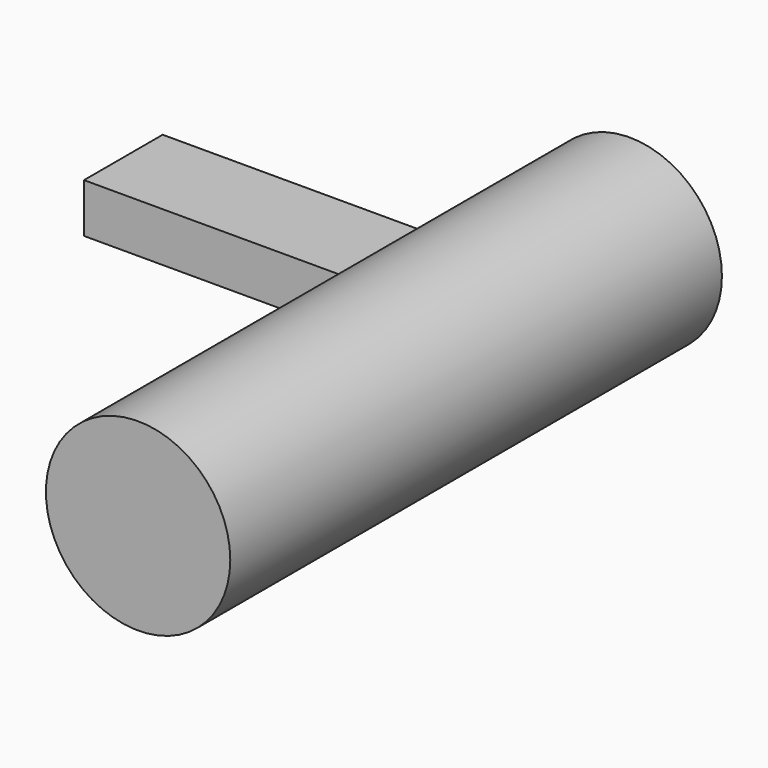
from build123d import *

# Parameters (mm, degrees)
F0_R     = 75
F1_DEPTH = 500
F3_DEPTH = 300


with BuildPart() as f1:
    # F0 (on Front) → F1 (new body)
    with BuildSketch(Plane.XZ):
        Circle(F0_R)
    extrude(amount=F1_DEPTH)

    # F2 (on Right) → F3 (join)
    with BuildSketch(Plane.YZ):
        Polygon((-100, 0), (-100, 20), (-180, 20), (-180, -20), (-100, -20), align=None)
    extrude(amount=-F3_DEPTH)


solid = f1.part
